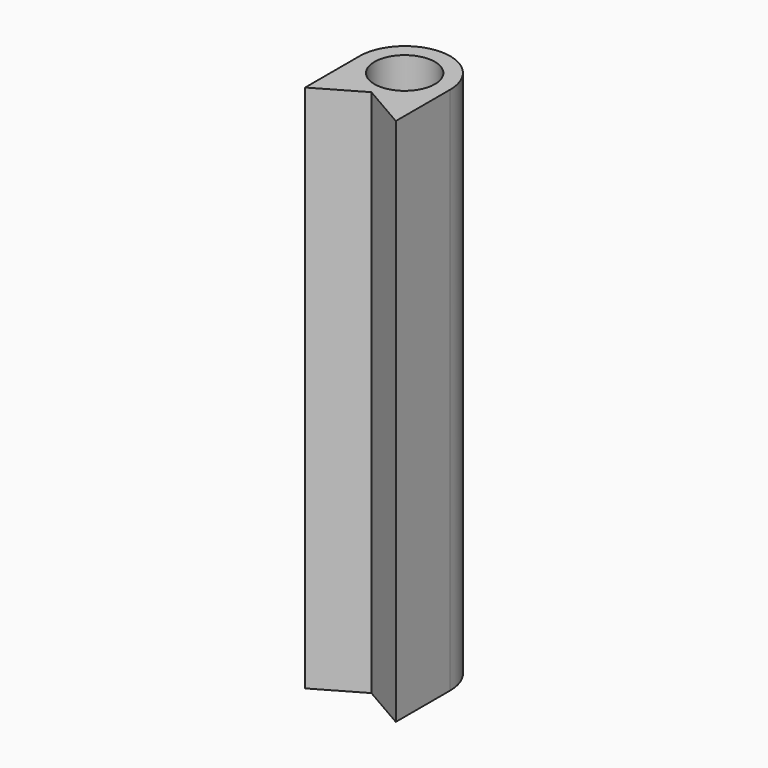
from build123d import *

# Parameters (mm, degrees)
SKETCH_R  = 2
PAD_DEPTH = 35


with BuildPart() as part:
    # Sketch → Pad (new body)
    with BuildSketch(Plane.XY):
        with BuildLine():
            Line((3, 0.017959), (3, -4.482041))
            Line((0, -2.75), (3, -4.482041))
            Line((0, -2.75), (-3, -4.482061))
            Line((-3, -4.482061), (-3, 0.017939))
            ThreePointArc((3, 0.017959), (-1e-05, 3.017959), (-3, 0.017939))
        make_face()
        Circle(SKETCH_R, mode=Mode.SUBTRACT)
    extrude(amount=PAD_DEPTH)


solid = part.part
